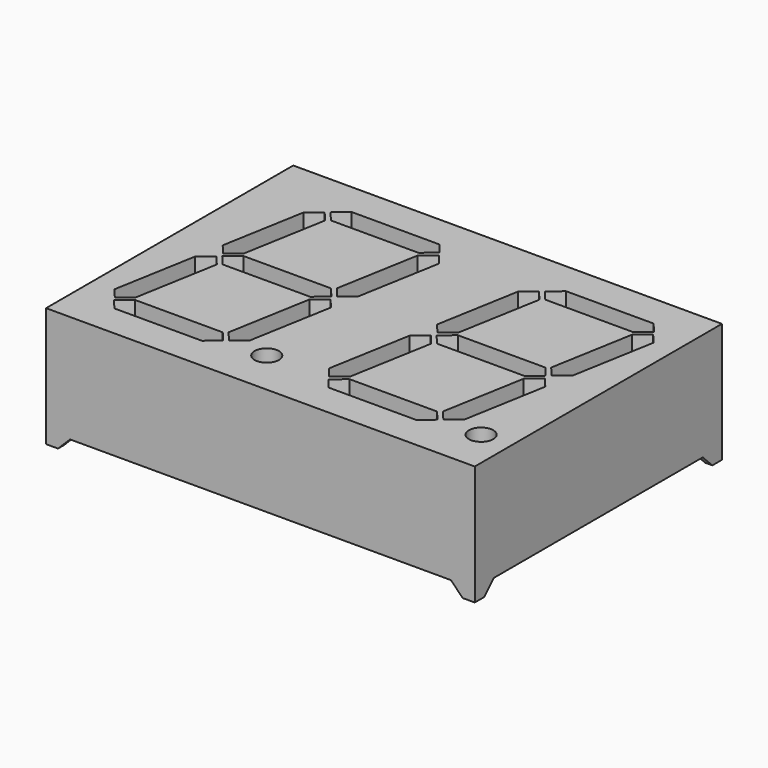
from build123d import *

# Parameters (mm, degrees)
SKETCH_W             = 34.6
SKETCH_H             = 24.6
PAD001_DEPTH         = 1
SKETCH002_R          = 1.016
PAD002_DEPTH         = 5
LINEARPATTERN_COUNT  = 2
LINEARPATTERN_PITCH  = 17.9
SKETCH003_W          = 35.8
SKETCH003_H          = 25.8
PAD003_DEPTH         = 10
POCKET_DEPTH         = 12.901
POCKET_DEPTH_BACK    = 12.901
POCKET001_DEPTH      = 17.901
POCKET001_DEPTH_BACK = 17.901
SKETCH006_W          = 34.6
SKETCH006_H          = 24.6
POCKET002_DEPTH      = 2


with BuildPart() as digit001:
    # Sketch → Pad001 (new body)
    with BuildSketch(Plane.XY):
        Rectangle(SKETCH_W, SKETCH_H)
    extrude(amount=PAD001_DEPTH)

    # Sketch002 → Pad002 (join)
    with BuildSketch(Plane.XY):
        with Locations((-2.484719, -9.134)):
            Circle(SKETCH002_R)
        Polygon((-11.875322, 9.261), (-10.815853, 10.15), (-3.50471, 10.15), (-2.75875, 9.261), (-3.818219, 8.372), (-11.129362, 8.372), align=None)
        Polygon((-12.171581, 9.021337), (-11.425621, 8.132337), (-12.643997, 1.222585), (-13.703466, 0.333585), (-14.449425, 1.222585), (-13.23105, 8.132337), align=None)
        Polygon((-2.56357, 8.927415), (-3.623039, 8.038415), (-4.841415, 1.128663), (-4.095455, 0.239663), (-3.035986, 1.128663), (-1.81761, 8.038415), align=None)
        Polygon((-12.448817, 0.889), (-13.508286, 0), (-12.762326, -0.889), (-5.451183, -0.889), (-4.391714, 0), (-5.137674, 0.889), align=None)
        Polygon((-13.804545, -0.239663), (-14.864014, -1.128663), (-16.08239, -8.038415), (-15.33643, -8.927415), (-14.276961, -8.038415), (-13.058585, -1.128663), align=None)
        Polygon((-4.196534, -0.333585), (-5.256003, -1.222585), (-6.474379, -8.132337), (-5.728419, -9.021337), (-4.66895, -8.132337), (-3.450575, -1.222585), align=None)
        Polygon((-15.14125, -9.261), (-14.081781, -8.372), (-6.770638, -8.372), (-6.024678, -9.261), (-7.084147, -10.15), (-14.39529, -10.15), align=None)
    pad002 = extrude(amount=PAD002_DEPTH)

    # LinearPattern: Pad002 ×2
    with Locations(*[(i * LINEARPATTERN_PITCH, 0, 0) for i in range(1, LINEARPATTERN_COUNT)]):
        add(pad002)


with BuildPart() as digit001_1:
    # Body001 placement: moved
    add(digit001.part.moved(Location((0, 0, 5))))


with BuildPart() as obj1:
    # Sketch003 → Pad003 (new body)
    with BuildSketch(Plane.XY):
        Rectangle(SKETCH003_W, SKETCH003_H)
    extrude(amount=PAD003_DEPTH)

    # Sketch004 → Pocket (cut, two sides)
    with BuildSketch(Plane.XZ) as pocket_sk:
        Polygon((-16.9, 0), (-15.9, 1), (15.9, 1), (16.9, 0), align=None)
    extrude(amount=-POCKET_DEPTH, mode=Mode.SUBTRACT)
    extrude(pocket_sk.sketch, amount=POCKET_DEPTH_BACK, mode=Mode.SUBTRACT)

    # Sketch005 → Pocket001 (cut, two sides)
    with BuildSketch(Plane.YZ) as pocket001_sk:
        Polygon((-11.9, 0), (11.9, 0), (10.9, 1), (-10.9, 1), align=None)
    extrude(amount=-POCKET001_DEPTH, mode=Mode.SUBTRACT)
    extrude(pocket001_sk.sketch, amount=POCKET001_DEPTH_BACK, mode=Mode.SUBTRACT)

    # Sketch006 → Pocket002 (cut)
    with BuildSketch(Plane.XY):
        Rectangle(SKETCH006_W, SKETCH006_H)
    extrude(amount=POCKET002_DEPTH, mode=Mode.SUBTRACT)

    # Cut: cut Digit001
    add(digit001_1.part, mode=Mode.SUBTRACT)


solid = obj1.part
